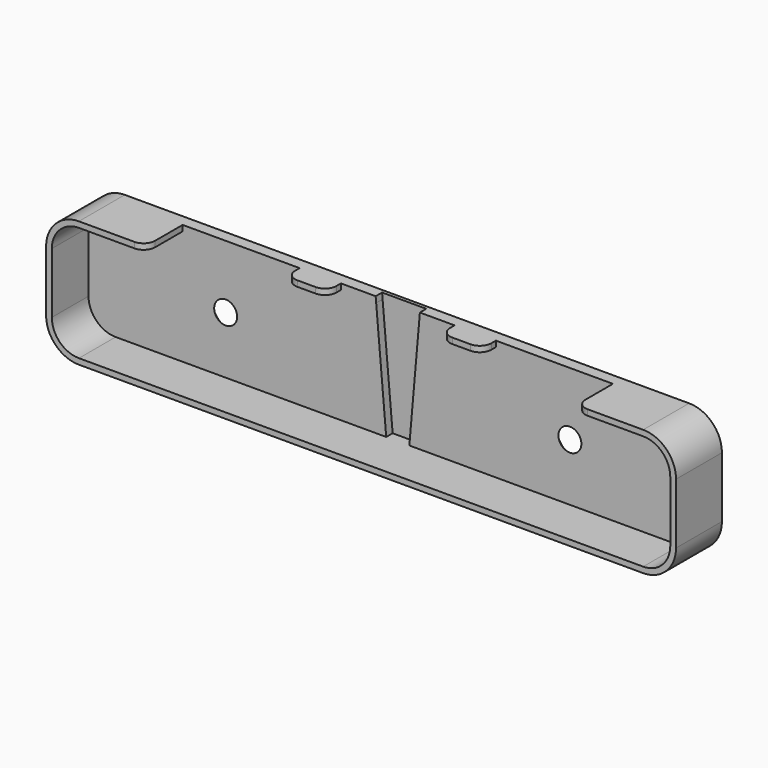
from build123d import *

# Parameters (mm, degrees)
F1_DEPTH  = 12.7
F2_DEPTH  = 2.54
F3_R      = 6
F4_R      = 7.2644
F5_R      = 2.54
F6_DEPTH  = 25.4
F6_TAPER  = -45
F0_W      = 9.144
F0_H      = 1.27
F7_DEPTH  = 6.35
F0_W_2    = 25.908
F8_DEPTH  = 2.54
F9_R      = 2.54
F10_DEPTH = 0.762


with BuildPart() as f1:
    # F0 (on Front) → F1 (new body)
    with BuildSketch(Plane.XZ):
        Polygon((-47.625, 13.97), (-69.723, 13.97), (-69.723, -13.97), (69.723, -13.97), (69.723, 13.97), (47.625, 13.97), (47.625, 12.7), (68.453, 12.7), (68.453, -12.7), (2.5605612715, -12.7), (-2.5605612715, -12.7), (-68.453, -12.7), (-68.453, 12.7), (-47.625, 12.7), align=None)
    extrude(amount=F1_DEPTH)

    # F0 (on Front) → F2 (join)
    with BuildSketch(Plane.XZ):
        Polygon((-21.717, 12.7), (-47.625, 12.7), (-68.453, 12.7), (-68.453, -12.7), (-2.5605612715, -12.7), (-4.782773325, 12.7), (-12.573, 12.7), align=None)
        Polygon((68.453, 12.7), (47.625, 12.7), (21.717, 12.7), (12.573, 12.7), (4.782773325, 12.7), (2.5605612715, -12.7), (68.453, -12.7), align=None)
    extrude(amount=F2_DEPTH)

    # F3
    f3_edges = [f1.edges().sort_by_distance(p)[0] for p in [
        (-68.453, -7.62, 12.7),
        (-68.453, -7.62, -12.7),
        (68.453, -7.62, 12.7),
        (68.453, -7.62, -12.7),
    ]]
    fillet(f3_edges, radius=F3_R)

    # F4
    f4_edges = [f1.edges().sort_by_distance(p)[0] for p in [
        (-69.723, -6.35, 13.97),
        (-69.723, -6.35, -13.97),
        (69.723, -6.35, -13.97),
        (69.723, -6.35, 13.97),
    ]]
    fillet(f4_edges, radius=F4_R)

    # F5 (on face) → F6 (cut)
    with BuildSketch(Plane.XZ.offset(2.54)):
        with Locations((-38.1, 0)):
            Circle(F5_R)
        with Locations((38.1, 0)):
            Circle(F5_R)
    extrude(amount=-F6_DEPTH, taper=F6_TAPER, mode=Mode.SUBTRACT)

    # F0 (on Front) → F7 (join)
    with BuildSketch(Plane.XZ):
        with Locations((17.145, 13.335)):
            Rectangle(F0_W, F0_H)
        with Locations((-17.145, 13.335)):
            Rectangle(F0_W, F0_H)
    extrude(amount=F7_DEPTH)

    # F0 (on Front) → F8 (join)
    with BuildSketch(Plane.XZ):
        with Locations((34.671, 13.335)):
            Rectangle(F0_W_2, F0_H)
        Polygon((12.573, 13.97), (4.8938839277, 13.97), (4.782773325, 12.7), (12.573, 12.7), align=None)
        with Locations((-34.671, 13.335)):
            Rectangle(F0_W_2, F0_H)
        Polygon((-4.8938839277, 13.97), (-12.573, 13.97), (-12.573, 12.7), (-4.782773325, 12.7), align=None)
    extrude(amount=F8_DEPTH)

    # F9
    f9_edges = [f1.edges().sort_by_distance(p)[0] for p in [
        (47.625, -12.7, 13.335),
        (21.717, -6.35, 13.335),
        (12.573, -6.35, 13.335),
        (-12.573, -6.35, 13.335),
        (-21.717, -6.35, 13.335),
        (-47.625, -12.7, 13.335),
    ]]
    fillet(f9_edges, radius=F9_R)

    # F0 (on Front) → F10 (join)
    with BuildSketch(Plane.XZ):
        Polygon((4.782773325, 12.7), (-4.782773325, 12.7), (-2.5605612715, -12.7), (2.5605612715, -12.7), align=None)
        Polygon((4.8938839277, 13.97), (-4.8938839277, 13.97), (-4.782773325, 12.7), (4.782773325, 12.7), align=None)
    extrude(amount=F10_DEPTH)


solid = f1.part
